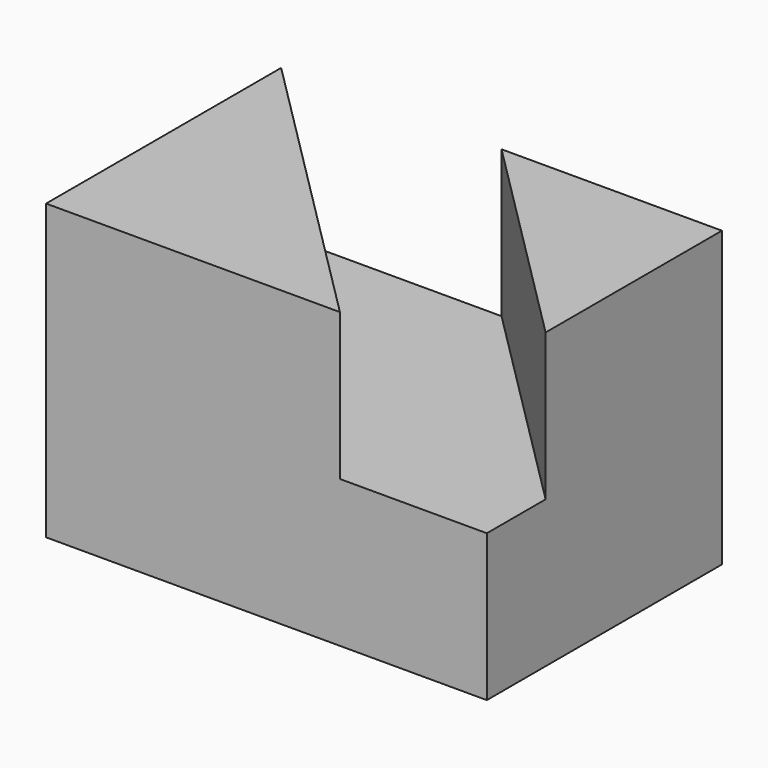
from build123d import *

# Parameters (mm, degrees)
F0_W     = 12.7
F0_H     = 12.7
F1_DEPTH = 25.4
F3_DEPTH = 12.7


with BuildPart() as f1:
    # F0 (on Front) → F1 (new body)
    with BuildSketch(Plane.XZ):
        Polygon((0, 25.4), (0, 0), (38.1, 0), (38.1, 12.7), (25.4, 12.7), (25.4, 25.4), align=None)
        with Locations((31.75, 19.05)):
            Rectangle(F0_W, F0_H)
    extrude(amount=F1_DEPTH)

    # F2 (on face) → F3 (cut)
    with BuildSketch(Plane.XY.offset(25.4)):
        Polygon((19.05, 0), (0, 0), (25.4, -25.4), (38.1, -25.4), (38.1, -19.05), align=None)
    extrude(amount=-F3_DEPTH, mode=Mode.SUBTRACT)


solid = f1.part
